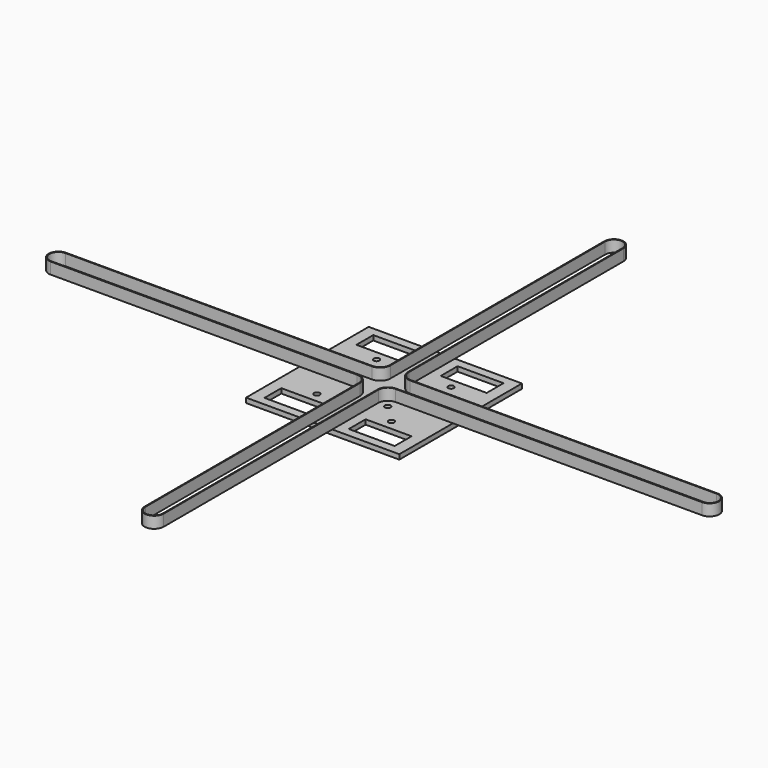
from build123d import *

# Parameters (mm, degrees)
F0_W     = 80
F0_H     = 80
F0_W_2   = 24
F0_H_2   = 11
F0_R     = 1.5
F1_DEPTH = 2.5
F3_DEPTH = 6


with BuildPart() as f1:
    # F0 (on Top) → F1 (new body)
    with BuildSketch(Plane.XY):
        Rectangle(F0_W, F0_H)
        with Locations((-22, -30)):
            Rectangle(F0_W_2, F0_H_2, mode=Mode.SUBTRACT)
        with Locations((-19.440787, -19.440787)):
            Circle(F0_R, mode=Mode.SUBTRACT)
        with Locations((-10, -10)):
            Circle(F0_R, mode=Mode.SUBTRACT)
        with Locations((22, -30)):
            Rectangle(F0_W_2, F0_H_2, mode=Mode.SUBTRACT)
        with Locations((19.440787, -19.440787)):
            Circle(F0_R, mode=Mode.SUBTRACT)
        with Locations((10, -10)):
            Circle(F0_R, mode=Mode.SUBTRACT)
        with Locations((-19.440787, 19.440787)):
            Circle(F0_R, mode=Mode.SUBTRACT)
        with Locations((-10, 10)):
            Circle(F0_R, mode=Mode.SUBTRACT)
        with Locations((-22, 30)):
            Rectangle(F0_W_2, F0_H_2, mode=Mode.SUBTRACT)
        with Locations((10, 10)):
            Circle(F0_R, mode=Mode.SUBTRACT)
        with Locations((19.440787, 19.440787)):
            Circle(F0_R, mode=Mode.SUBTRACT)
        with Locations((22, 30)):
            Rectangle(F0_W_2, F0_H_2, mode=Mode.SUBTRACT)
    extrude(amount=F1_DEPTH)


with BuildPart() as f3:
    # F2 (on face) → F3 (new body)
    with BuildSketch(Plane.XY.offset(2.5)):
        with BuildLine():
            Line((-10, 5), (-170, 5))
            ThreePointArc((-170, 5), (-175, 0), (-170, -5))
            Line((-170, -5), (-10, -5))
            ThreePointArc((-10, -5), (-6.464466, -6.464466), (-5, -10))
            Line((-5, -10), (-5, -150))
            ThreePointArc((-5, -150), (0, -155), (5, -150))
            Line((5, -150), (5, -10))
            ThreePointArc((5, -10), (6.464466, -6.464466), (10, -5))
            Line((10, -5), (170, -5))
            ThreePointArc((170, -5), (175, 0), (170, 5))
            Line((170, 5), (10, 5))
            ThreePointArc((10, 5), (6.464466, 6.464466), (5, 10))
            Line((5, 10), (5, 150))
            ThreePointArc((5, 150), (0, 155), (-5, 150))
            Line((-5, 150), (-5, 10))
            ThreePointArc((-5, 10), (-6.464466, 6.464466), (-10, 5))
        make_face()
        with BuildLine():
            ThreePointArc((-170, -4.58216), (-174.58216, 0), (-170, 4.58216))
            Line((-170, 4.58216), (-10, 4.58216))
            ThreePointArc((-10, 4.58216), (-6.169009, 6.169009), (-4.58216, 10))
            Line((-4.58216, 10), (-4.58216, 150))
            ThreePointArc((-4.58216, 150), (0, 154.58216), (4.58216, 150))
            Line((4.58216, 150), (4.58216, 10))
            ThreePointArc((4.58216, 10), (6.169009, 6.169009), (10, 4.58216))
            Line((10, 4.58216), (170, 4.58216))
            ThreePointArc((170, 4.58216), (174.58216, 0), (170, -4.58216))
            Line((170, -4.58216), (10, -4.58216))
            ThreePointArc((10, -4.58216), (6.169009, -6.169009), (4.58216, -10))
            Line((4.58216, -10), (4.58216, -150))
            ThreePointArc((4.58216, -150), (0, -154.58216), (-4.58216, -150))
            Line((-4.58216, -150), (-4.58216, -10))
            ThreePointArc((-4.58216, -10), (-6.169009, -6.169009), (-10, -4.58216))
            Line((-10, -4.58216), (-170, -4.58216))
        make_face(mode=Mode.SUBTRACT)
    extrude(amount=F3_DEPTH)


solid = Compound([f1.part, f3.part])
